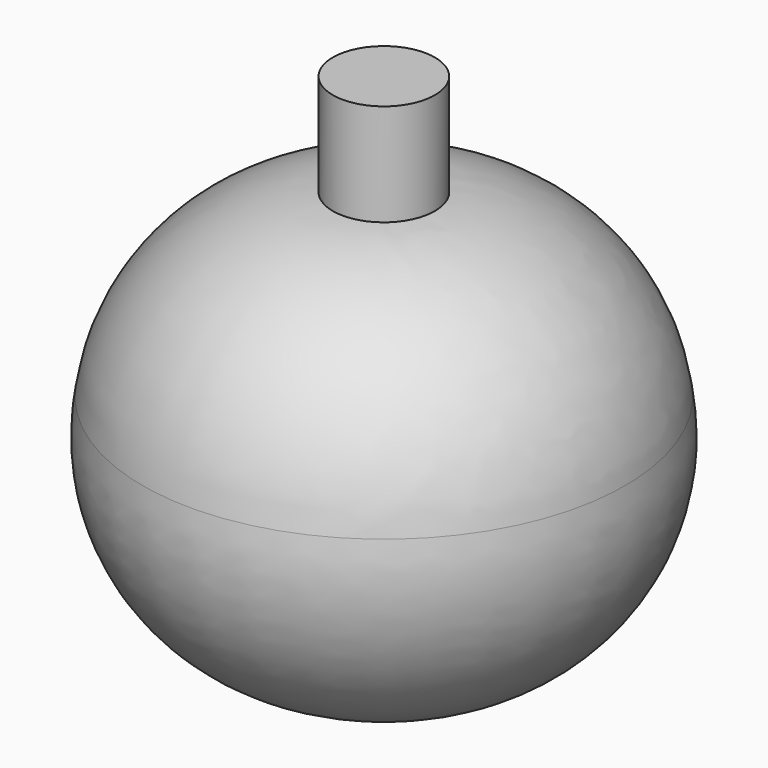
from build123d import *


with BuildPart() as f1:
    # F0 (on Front) → F1 (revolve)
    with BuildSketch(Plane.XZ):
        with BuildLine():
            Line((0, 27.625695), (-5, 27.625695))
            Line((-5, 27.625695), (-5, 17.625695))
            ThreePointArc((-5, 17.625695), (-17.453019, 12.126834), (-23.638086, 0))
            ThreePointArc((-23.638086, 0), (-17.901037, -17.781766), (0, -23.135065))
            Line((0, -23.135065), (0, 27.625695))
        make_face()
    revolve(axis=Axis((0, 0, 2.245315), (0, 0, -1)))


solid = f1.part
